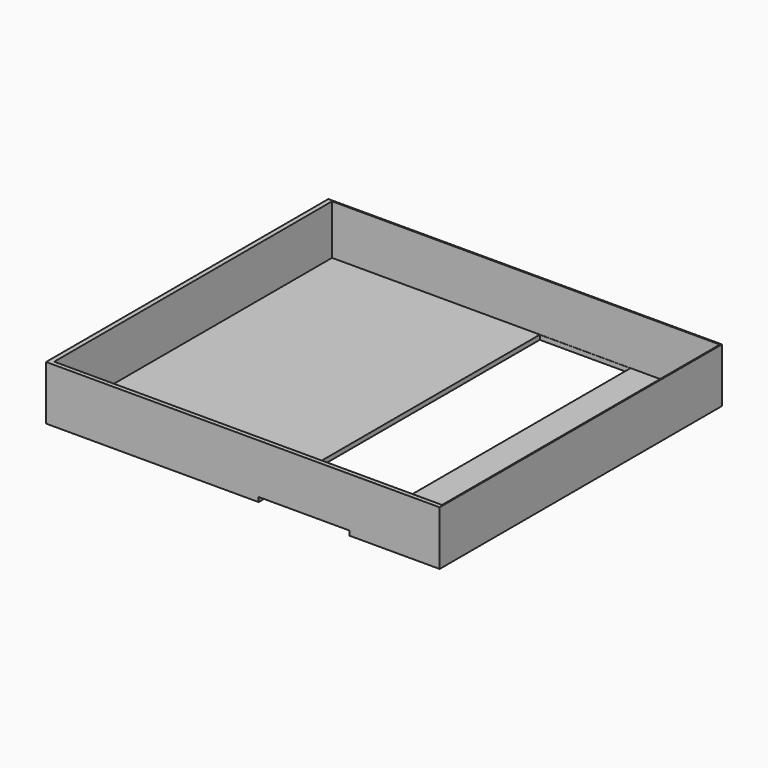
from build123d import *

# Parameters (mm, degrees)
BOX_W           = 87
BOX_H           = 78
BOX_DEPTH       = 12
SKETCH_W        = 85.727713
SKETCH_H        = 76.769046
POCKET_DEPTH    = 11
SKETCH001_W     = 20.043999
SKETCH001_H     = 77.680038
POCKET001_DEPTH = 1


with BuildPart() as part:
    # Box → Box (new body)
    with BuildSketch(Plane.XY):
        with Locations((43.5, 39)):
            Rectangle(BOX_W, BOX_H)
    extrude(amount=BOX_DEPTH)

    # Sketch (on DatumPlane) → Pocket (cut)
    with BuildSketch(Plane.XY.offset(12)):
        with Locations((43.899534, 39.340514)):
            Rectangle(SKETCH_W, SKETCH_H)
    extrude(amount=-POCKET_DEPTH, mode=Mode.SUBTRACT)

    # Sketch001 (on DatumPlane) → Pocket001 (cut)
    with BuildSketch(Plane(origin=(0, 0, 0), x_dir=(1, 0, 0), z_dir=(0, 0, -1))):
        with Locations((57.009068, -38.840019)):
            Rectangle(SKETCH001_W, SKETCH001_H)
    extrude(amount=-POCKET001_DEPTH, mode=Mode.SUBTRACT)


solid = part.part
